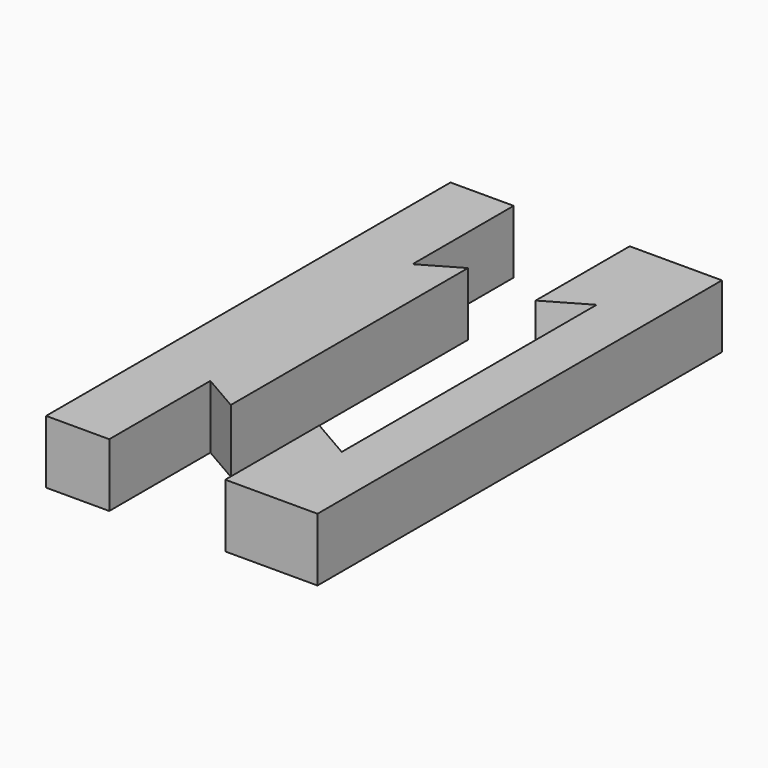
from build123d import *

# Parameters (mm, degrees)
F2_DEPTH = 5


with BuildPart() as f2:
    # F0 (on Top) + F1 (on Top) → F2 (new body)
    with BuildSketch(Plane.XY):
        Polygon((-12.352766, 11.577226), (-12.352766, 21.577226), (-17.352766, 21.577226), (-17.352766, -18.422774), (-12.352766, -18.422774), (-12.352766, -8.422774), align=None)
        Polygon((-9.352766, 13.309276), (-12.352766, 11.577226), (-12.352766, -8.422774), (-9.352766, -10.154825), align=None)
    with BuildSketch(Plane.XY):
        Polygon((3.925666, 21.826735), (-3.374334, 21.826735), (-3.374334, 12.526735), (-0.074334, 14.431991), (-0.074334, -10.778521), (-3.374334, -8.873265), (-3.374334, -18.173265), (3.925666, -18.173265), align=None)
    extrude(amount=F2_DEPTH)


solid = f2.part
